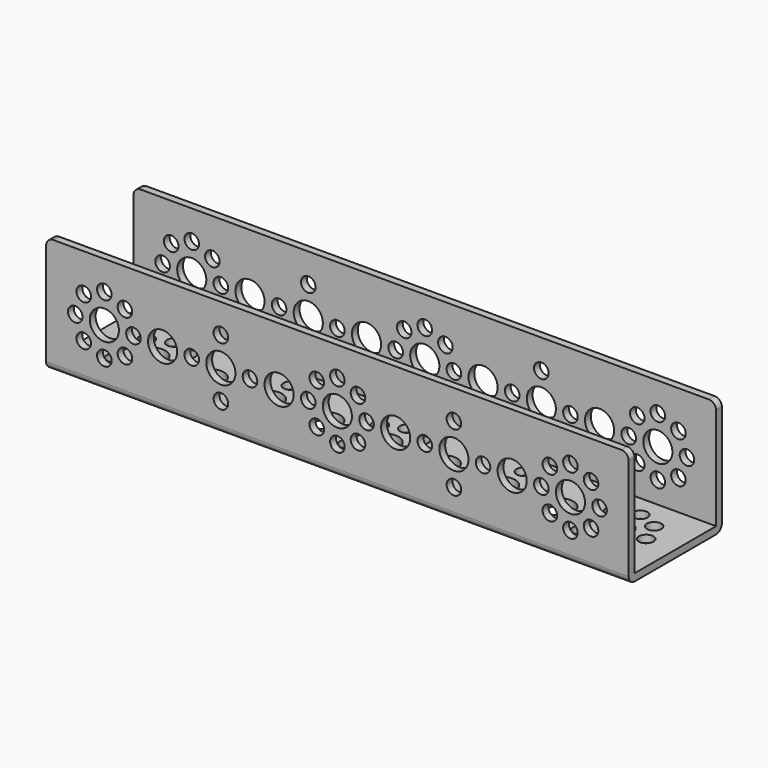
from build123d import *

# Parameters (mm, degrees)
F0_W     = 160
F0_H     = 32
F0_R     = 2
F0_R_2   = 4
F5_DEPTH = 2
F3_W     = 160
F3_H     = 32
F3_R     = 2
F3_R_2   = 4
F6_DEPTH = 2
F4_W     = 160
F4_H     = 32
F4_R     = 2
F4_R_2   = 4
F7_DEPTH = 2
F8_R     = 2


with BuildPart() as f5:
    # F0 (on Top) → F5 (new body)
    with BuildSketch(Plane.XY):
        Rectangle(F0_W, F0_H)
        with Locations((-64, -8)):
            Circle(F0_R, mode=Mode.SUBTRACT)
        with Locations((-69.656854, -5.656854)):
            Circle(F0_R, mode=Mode.SUBTRACT)
        with Locations((-58.343146, -5.656854)):
            Circle(F0_R, mode=Mode.SUBTRACT)
        with Locations((-32, -8)):
            Circle(F0_R, mode=Mode.SUBTRACT)
        with Locations((-5.656854, -5.656854)):
            Circle(F0_R, mode=Mode.SUBTRACT)
        with Locations((0, -8)):
            Circle(F0_R, mode=Mode.SUBTRACT)
        with Locations((5.656854, -5.656854)):
            Circle(F0_R, mode=Mode.SUBTRACT)
        with Locations((32, -8)):
            Circle(F0_R, mode=Mode.SUBTRACT)
        with Locations((58.343146, -5.656854)):
            Circle(F0_R, mode=Mode.SUBTRACT)
        with Locations((64, -8)):
            Circle(F0_R, mode=Mode.SUBTRACT)
        with Locations((69.656854, -5.656854)):
            Circle(F0_R, mode=Mode.SUBTRACT)
        with Locations((-72, 0)):
            Circle(F0_R, mode=Mode.SUBTRACT)
        with Locations((-64, 0)):
            Circle(F0_R_2, mode=Mode.SUBTRACT)
        with Locations((-56, 0)):
            Circle(F0_R, mode=Mode.SUBTRACT)
        with Locations((-48, 0)):
            Circle(F0_R_2, mode=Mode.SUBTRACT)
        with Locations((-69.656854, 5.656854)):
            Circle(F0_R, mode=Mode.SUBTRACT)
        with Locations((-58.343146, 5.656854)):
            Circle(F0_R, mode=Mode.SUBTRACT)
        with Locations((-40, 0)):
            Circle(F0_R, mode=Mode.SUBTRACT)
        with Locations((-32, 0)):
            Circle(F0_R_2, mode=Mode.SUBTRACT)
        with Locations((-24, 0)):
            Circle(F0_R, mode=Mode.SUBTRACT)
        with Locations((-16, 0)):
            Circle(F0_R_2, mode=Mode.SUBTRACT)
        with Locations((-8, 0)):
            Circle(F0_R, mode=Mode.SUBTRACT)
        with Locations((-5.656854, 5.656854)):
            Circle(F0_R, mode=Mode.SUBTRACT)
        with Locations((-64, 8)):
            Circle(F0_R, mode=Mode.SUBTRACT)
        with Locations((-32, 8)):
            Circle(F0_R, mode=Mode.SUBTRACT)
        Circle(F0_R_2, mode=Mode.SUBTRACT)
        with Locations((8, 0)):
            Circle(F0_R, mode=Mode.SUBTRACT)
        with Locations((16, 0)):
            Circle(F0_R_2, mode=Mode.SUBTRACT)
        with Locations((24, 0)):
            Circle(F0_R, mode=Mode.SUBTRACT)
        with Locations((32, 0)):
            Circle(F0_R_2, mode=Mode.SUBTRACT)
        with Locations((5.656854, 5.656854)):
            Circle(F0_R, mode=Mode.SUBTRACT)
        with Locations((40, 0)):
            Circle(F0_R, mode=Mode.SUBTRACT)
        with Locations((48, 0)):
            Circle(F0_R_2, mode=Mode.SUBTRACT)
        with Locations((56, 0)):
            Circle(F0_R, mode=Mode.SUBTRACT)
        with Locations((64, 0)):
            Circle(F0_R_2, mode=Mode.SUBTRACT)
        with Locations((72, 0)):
            Circle(F0_R, mode=Mode.SUBTRACT)
        with Locations((58.343146, 5.656854)):
            Circle(F0_R, mode=Mode.SUBTRACT)
        with Locations((69.656854, 5.656854)):
            Circle(F0_R, mode=Mode.SUBTRACT)
        with Locations((0, 8)):
            Circle(F0_R, mode=Mode.SUBTRACT)
        with Locations((32, 8)):
            Circle(F0_R, mode=Mode.SUBTRACT)
        with Locations((64, 8)):
            Circle(F0_R, mode=Mode.SUBTRACT)
    extrude(amount=F5_DEPTH)

    # F3 (on face) → F6 (join)
    with BuildSketch(Plane.XZ.offset(-16)):
        with Locations((0, 16)):
            Rectangle(F3_W, F3_H)
        with Locations((-64, 8)):
            Circle(F3_R, mode=Mode.SUBTRACT)
        with Locations((-69.656854, 10.343146)):
            Circle(F3_R, mode=Mode.SUBTRACT)
        with Locations((-58.343146, 10.343146)):
            Circle(F3_R, mode=Mode.SUBTRACT)
        with Locations((-32, 8)):
            Circle(F3_R, mode=Mode.SUBTRACT)
        with Locations((-5.656854, 10.343146)):
            Circle(F3_R, mode=Mode.SUBTRACT)
        with Locations((0, 8)):
            Circle(F3_R, mode=Mode.SUBTRACT)
        with Locations((5.656854, 10.343146)):
            Circle(F3_R, mode=Mode.SUBTRACT)
        with Locations((32, 8)):
            Circle(F3_R, mode=Mode.SUBTRACT)
        with Locations((58.343146, 10.343146)):
            Circle(F3_R, mode=Mode.SUBTRACT)
        with Locations((64, 8)):
            Circle(F3_R, mode=Mode.SUBTRACT)
        with Locations((69.656854, 10.343146)):
            Circle(F3_R, mode=Mode.SUBTRACT)
        with Locations((-72, 16)):
            Circle(F3_R, mode=Mode.SUBTRACT)
        with BuildLine():
            ThreePointArc((-60, 16), (-64, 12), (-68, 16))
            ThreePointArc((-68, 16), (-64, 20), (-60, 16))
        make_face(mode=Mode.SUBTRACT)
        with Locations((-56, 16)):
            Circle(F3_R, mode=Mode.SUBTRACT)
        with Locations((-48, 16)):
            Circle(F3_R_2, mode=Mode.SUBTRACT)
        with Locations((-69.656854, 21.656854)):
            Circle(F3_R, mode=Mode.SUBTRACT)
        with Locations((-58.343146, 21.656854)):
            Circle(F3_R, mode=Mode.SUBTRACT)
        with Locations((-40, 16)):
            Circle(F3_R, mode=Mode.SUBTRACT)
        with Locations((-32, 16)):
            Circle(F3_R_2, mode=Mode.SUBTRACT)
        with Locations((-24, 16)):
            Circle(F3_R, mode=Mode.SUBTRACT)
        with Locations((-16, 16)):
            Circle(F3_R_2, mode=Mode.SUBTRACT)
        with Locations((-8, 16)):
            Circle(F3_R, mode=Mode.SUBTRACT)
        with Locations((-5.656854, 21.656854)):
            Circle(F3_R, mode=Mode.SUBTRACT)
        with Locations((-64, 24)):
            Circle(F3_R, mode=Mode.SUBTRACT)
        with Locations((-32, 24)):
            Circle(F3_R, mode=Mode.SUBTRACT)
        with Locations((0, 16)):
            Circle(F3_R_2, mode=Mode.SUBTRACT)
        with Locations((8, 16)):
            Circle(F3_R, mode=Mode.SUBTRACT)
        with Locations((16, 16)):
            Circle(F3_R_2, mode=Mode.SUBTRACT)
        with Locations((24, 16)):
            Circle(F3_R, mode=Mode.SUBTRACT)
        with Locations((32, 16)):
            Circle(F3_R_2, mode=Mode.SUBTRACT)
        with Locations((5.656854, 21.656854)):
            Circle(F3_R, mode=Mode.SUBTRACT)
        with Locations((40, 16)):
            Circle(F3_R, mode=Mode.SUBTRACT)
        with Locations((48, 16)):
            Circle(F3_R_2, mode=Mode.SUBTRACT)
        with Locations((56, 16)):
            Circle(F3_R, mode=Mode.SUBTRACT)
        with Locations((64, 16)):
            Circle(F3_R_2, mode=Mode.SUBTRACT)
        with Locations((72, 16)):
            Circle(F3_R, mode=Mode.SUBTRACT)
        with Locations((58.343146, 21.656854)):
            Circle(F3_R, mode=Mode.SUBTRACT)
        with Locations((69.656854, 21.656854)):
            Circle(F3_R, mode=Mode.SUBTRACT)
        with Locations((0, 24)):
            Circle(F3_R, mode=Mode.SUBTRACT)
        with Locations((32, 24)):
            Circle(F3_R, mode=Mode.SUBTRACT)
        with Locations((64, 24)):
            Circle(F3_R, mode=Mode.SUBTRACT)
    extrude(amount=F6_DEPTH)

    # F4 (on face) → F7 (join)
    with BuildSketch(Plane(origin=(0, -16, 0), x_dir=(-1, 0, 0), z_dir=(0, 1, 0))):
        with Locations((0, 16)):
            Rectangle(F4_W, F4_H)
        with Locations((-64, 8)):
            Circle(F4_R, mode=Mode.SUBTRACT)
        with Locations((-69.656854, 10.343146)):
            Circle(F4_R, mode=Mode.SUBTRACT)
        with Locations((-58.343146, 10.343146)):
            Circle(F4_R, mode=Mode.SUBTRACT)
        with Locations((-32, 8)):
            Circle(F4_R, mode=Mode.SUBTRACT)
        with Locations((-5.656854, 10.343146)):
            Circle(F4_R, mode=Mode.SUBTRACT)
        with Locations((0, 8)):
            Circle(F4_R, mode=Mode.SUBTRACT)
        with Locations((5.656854, 10.343146)):
            Circle(F4_R, mode=Mode.SUBTRACT)
        with Locations((32, 8)):
            Circle(F4_R, mode=Mode.SUBTRACT)
        with Locations((58.343146, 10.343146)):
            Circle(F4_R, mode=Mode.SUBTRACT)
        with Locations((64, 8)):
            Circle(F4_R, mode=Mode.SUBTRACT)
        with Locations((69.656854, 10.343146)):
            Circle(F4_R, mode=Mode.SUBTRACT)
        with BuildLine():
            ThreePointArc((-74, 16), (-72, 18), (-70, 16))
            ThreePointArc((-70, 16), (-72, 14), (-74, 16))
        make_face(mode=Mode.SUBTRACT)
        with BuildLine():
            ThreePointArc((-60, 16), (-64, 12), (-68, 16))
            ThreePointArc((-68, 16), (-64, 20), (-60, 16))
        make_face(mode=Mode.SUBTRACT)
        with Locations((-56, 16)):
            Circle(F4_R, mode=Mode.SUBTRACT)
        with Locations((-48, 16)):
            Circle(F4_R_2, mode=Mode.SUBTRACT)
        with Locations((-69.656854, 21.656854)):
            Circle(F4_R, mode=Mode.SUBTRACT)
        with Locations((-58.343146, 21.656854)):
            Circle(F4_R, mode=Mode.SUBTRACT)
        with Locations((-40, 16)):
            Circle(F4_R, mode=Mode.SUBTRACT)
        with Locations((-32, 16)):
            Circle(F4_R_2, mode=Mode.SUBTRACT)
        with Locations((-24, 16)):
            Circle(F4_R, mode=Mode.SUBTRACT)
        with Locations((-16, 16)):
            Circle(F4_R_2, mode=Mode.SUBTRACT)
        with BuildLine():
            ThreePointArc((-10, 16), (-8, 18), (-6, 16))
            ThreePointArc((-6, 16), (-8, 14), (-10, 16))
        make_face(mode=Mode.SUBTRACT)
        with Locations((-5.656854, 21.656854)):
            Circle(F4_R, mode=Mode.SUBTRACT)
        with Locations((-64, 24)):
            Circle(F4_R, mode=Mode.SUBTRACT)
        with Locations((-32, 24)):
            Circle(F4_R, mode=Mode.SUBTRACT)
        with BuildLine():
            ThreePointArc((4, 16), (0, 12), (-4, 16))
            ThreePointArc((-4, 16), (0, 20), (4, 16))
        make_face(mode=Mode.SUBTRACT)
        with Locations((8, 16)):
            Circle(F4_R, mode=Mode.SUBTRACT)
        with Locations((16, 16)):
            Circle(F4_R_2, mode=Mode.SUBTRACT)
        with Locations((24, 16)):
            Circle(F4_R, mode=Mode.SUBTRACT)
        with Locations((32, 16)):
            Circle(F4_R_2, mode=Mode.SUBTRACT)
        with Locations((5.656854, 21.656854)):
            Circle(F4_R, mode=Mode.SUBTRACT)
        with Locations((40, 16)):
            Circle(F4_R, mode=Mode.SUBTRACT)
        with Locations((48, 16)):
            Circle(F4_R_2, mode=Mode.SUBTRACT)
        with Locations((56, 16)):
            Circle(F4_R, mode=Mode.SUBTRACT)
        with Locations((64, 16)):
            Circle(F4_R_2, mode=Mode.SUBTRACT)
        with Locations((72, 16)):
            Circle(F4_R, mode=Mode.SUBTRACT)
        with Locations((58.343146, 21.656854)):
            Circle(F4_R, mode=Mode.SUBTRACT)
        with Locations((69.656854, 21.656854)):
            Circle(F4_R, mode=Mode.SUBTRACT)
        with Locations((0, 24)):
            Circle(F4_R, mode=Mode.SUBTRACT)
        with Locations((32, 24)):
            Circle(F4_R, mode=Mode.SUBTRACT)
        with Locations((64, 24)):
            Circle(F4_R, mode=Mode.SUBTRACT)
    extrude(amount=F7_DEPTH)

    # F8
    f8_edges = [f5.edges().sort_by_distance(p)[0] for p in [
        (0, -16, 0),
        (0, 16, 0),
        (80, -15, 32),
        (80, 15, 32),
        (-80, -15, 32),
        (-80, 15, 32),
    ]]
    fillet(f8_edges, radius=F8_R)


solid = f5.part
